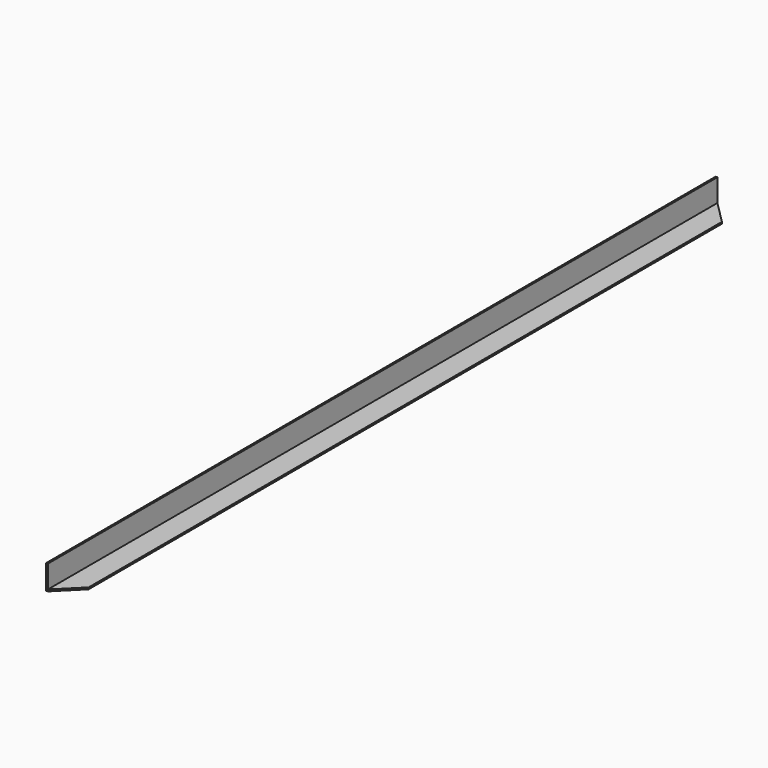
from build123d import *

# Parameters (mm, degrees)
F1_DEPTH = 1524
F3_DEPTH = 25.4
F5_DEPTH = 25.4


with BuildPart() as f1:
    # F0 (on Front) → F1 (new body)
    with BuildSketch(Plane.XZ):
        Polygon((-50.705169, 29.967905), (-53.880169, 29.967905), (-53.880169, -14.482095), (-9.430169, -14.482095), (-9.430169, -11.307095), (-50.705169, -11.307095), align=None)
    extrude(amount=F1_DEPTH)

    # F2 (on face) → F3 (cut)
    with BuildSketch(Plane.XY.offset(-11.307095)):
        Polygon((-50.705169, 0), (-9.430169, -41.340452), (-9.430169, 0), align=None)
    extrude(amount=-F3_DEPTH, mode=Mode.SUBTRACT)

    # F4 (on face) → F5 (cut)
    with BuildSketch(Plane.XY.offset(-11.307095)):
        Polygon((-9.430169, -1524), (-9.430169, -1482.725), (-50.705169, -1524), align=None)
    extrude(amount=-F5_DEPTH, mode=Mode.SUBTRACT)


solid = f1.part
